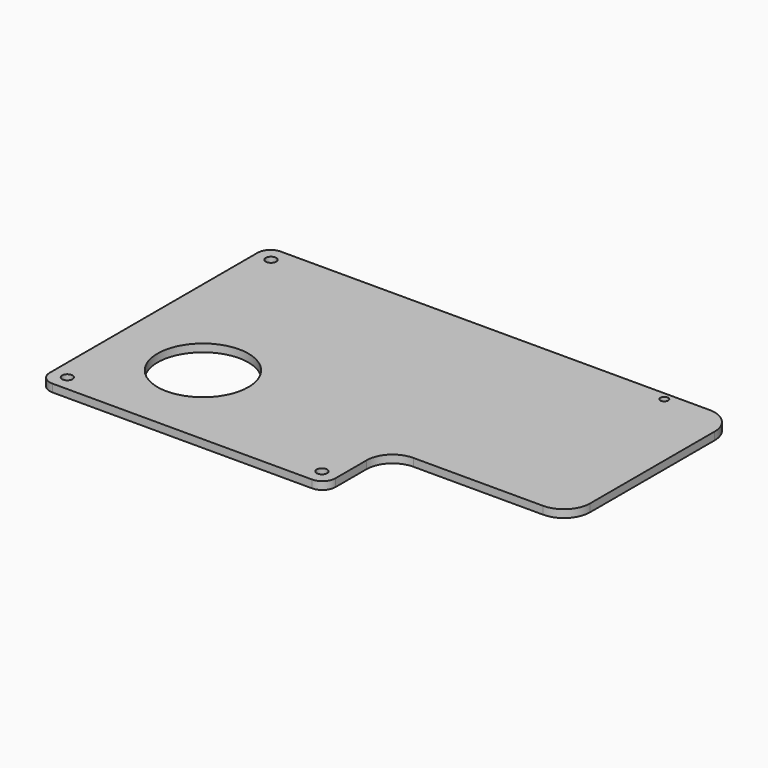
from build123d import *

# Parameters (mm, degrees)
F0_R     = 2
F0_R_2   = 17.5
F0_R_3   = 1.5
F1_DEPTH = 3
F2_R     = 10
F3_R     = 5


with BuildPart() as f1:
    # F0 (on Top) → F1 (new body)
    with BuildSketch(Plane.XY):
        Polygon((180, 110), (0, 110), (0, 0), (110, 0), (110, 30), (180, 30), align=None)
        with Locations((6, 6)):
            Circle(F0_R, mode=Mode.SUBTRACT)
        with Locations((35, 35)):
            Circle(F0_R_2, mode=Mode.SUBTRACT)
        with Locations((104, 6)):
            Circle(F0_R, mode=Mode.SUBTRACT)
        with Locations((6, 104)):
            Circle(F0_R, mode=Mode.SUBTRACT)
        with Locations((155, 107)):
            Circle(F0_R_3, mode=Mode.SUBTRACT)
    extrude(amount=F1_DEPTH)

    # F2
    f2_edges = [f1.edges().sort_by_distance(p)[0] for p in [
        (110, 30, 1.5),
        (180, 30, 1.5),
        (180, 110, 1.5),
    ]]
    fillet(f2_edges, radius=F2_R)

    # F3
    f3_edges = [f1.edges().sort_by_distance(p)[0] for p in [
        (110, 0, 1.5),
        (0, 0, 1.5),
        (0, 110, 1.5),
    ]]
    fillet(f3_edges, radius=F3_R)


solid = f1.part
